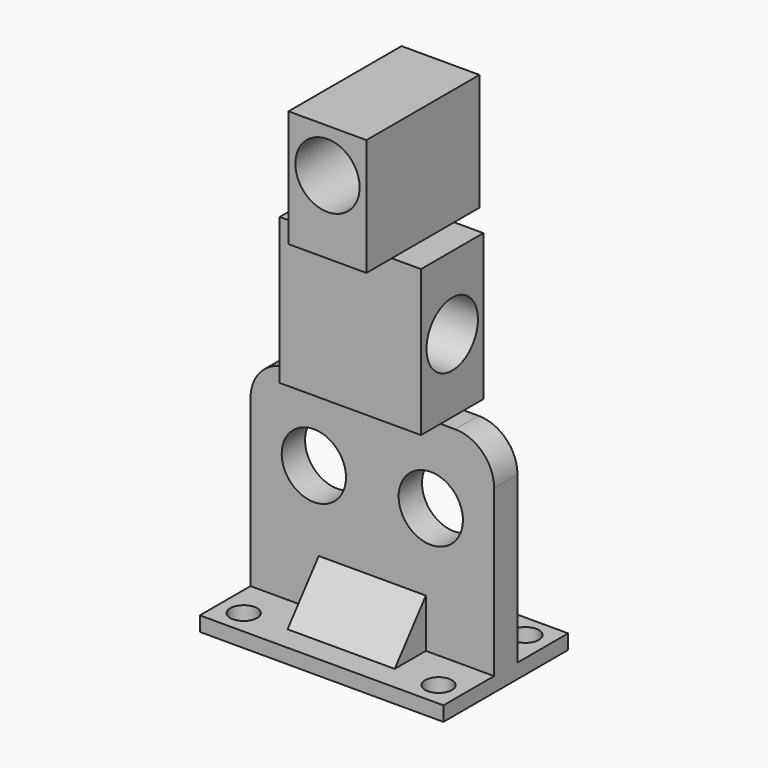
from build123d import *

# Parameters (mm, degrees)
PAD001_DEPTH  = 50
PAD002_DEPTH  = 50
SKETCH005_W   = 14
SKETCH005_H   = 13
PAD004_DEPTH  = 20
SKETCH006_W   = 14
SKETCH006_H   = 13
PAD005_DEPTH  = 20
SKETCH007_W   = 14
SKETCH007_H   = 13
PAD006_DEPTH  = 20
SKETCH008_W   = 14
SKETCH008_H   = 13
PAD007_DEPTH  = 20
SKETCH003_W   = 32
SKETCH003_H   = 3
PAD003_DEPTH  = 50
SKETCH004_R   = 2.75
HOLE_DEPTH    = 3.001
SKETCH009_W   = 16
SKETCH009_H   = 29
PAD008_DEPTH  = 30
SKETCH010_R   = 6.6
HOLE001_DEPTH = 29.001
SKETCH011_W   = 16
SKETCH011_H   = 29
PAD009_DEPTH  = 24
SKETCH012_R   = 6.6
HOLE002_DEPTH = 29.001001
SKETCH_W      = 32
SKETCH_H      = 42
PAD_DEPTH     = 50
SKETCH014_R   = 6.6
HOLE004_DEPTH = 32.001
FILLET_R      = 8
FILLET001_R   = 8


with BuildPart() as body001:
    # Sketch001 (on Face1 of CopyPad) → Pad001 (new body)
    with BuildSketch(Plane.YZ.offset(50)):
        Polygon((19, 44), (32, 44), (32, 2), (27, 2), (19, 12.011942), align=None)
    extrude(amount=-PAD001_DEPTH)


with BuildPart() as body002:
    # Sketch002 (on Face1 of CopyPad001) → Pad002 (new body)
    with BuildSketch(Plane.YZ.offset(50)):
        Polygon((13, 44), (13, 12), (5, 2), (0, 2), (0, 44), align=None)
    extrude(amount=-PAD002_DEPTH)


with BuildPart() as body004:
    # Sketch005 (on Face1 of CopyHole) → Pad004 (new body)
    with BuildSketch(Plane.XY.offset(2)):
        with Locations((7, 6.5)):
            Rectangle(SKETCH005_W, SKETCH005_H)
    extrude(amount=PAD004_DEPTH)


with BuildPart() as body005:
    # Sketch006 (on Face1 of CopyHole001) → Pad005 (new body)
    with BuildSketch(Plane.XY.offset(2)):
        with Locations((7, 25.5)):
            Rectangle(SKETCH006_W, SKETCH006_H)
    extrude(amount=PAD005_DEPTH)


with BuildPart() as body006:
    # Sketch007 (on Face1 of CopyHole002) → Pad006 (new body)
    with BuildSketch(Plane.XY.offset(2)):
        with Locations((43, 6.5)):
            Rectangle(SKETCH007_W, SKETCH007_H)
    extrude(amount=PAD006_DEPTH)


with BuildPart() as body007:
    # Sketch008 (on Face1 of CopyHole003) → Pad007 (new body)
    with BuildSketch(Plane.XY.offset(2)):
        with Locations((43, 25.5)):
            Rectangle(SKETCH008_W, SKETCH008_H)
    extrude(amount=PAD007_DEPTH)


with BuildPart() as body003:
    # Sketch003 (on Face1 of CopyPad002) → Pad003 (new body)
    with BuildSketch(Plane(origin=(0, 0, 0), x_dir=(0, -1, 0), z_dir=(-1, 0, 0))):
        with Locations((-16, 0.5)):
            Rectangle(SKETCH003_W, SKETCH003_H)
    extrude(amount=-PAD003_DEPTH)

    # Sketch004 (on Face1 of Pad003) → Hole (cut, through all)
    with BuildSketch(Plane.XY.offset(2)):
        with Locations((5, 27)):
            Circle(SKETCH004_R)
        with Locations((5, 5)):
            Circle(SKETCH004_R)
        with Locations((45, 5)):
            Circle(SKETCH004_R)
        with Locations((45, 27.276354)):
            Circle(SKETCH004_R)
    extrude(amount=-HOLE_DEPTH, mode=Mode.SUBTRACT)


with BuildPart() as body008:
    # Sketch009 (on Face1 of CopyPad003) → Pad008 (new body)
    with BuildSketch(Plane(origin=(0, 0, 44), x_dir=(0, -1, 0), z_dir=(0, 0, 1))):
        with Locations((-16, 24.5)):
            Rectangle(SKETCH009_W, SKETCH009_H)
    extrude(amount=PAD008_DEPTH)

    # Sketch010 (on Face1 of Pad008) → Hole001 (cut, through all)
    with BuildSketch(Plane(origin=(10, 0, 0), x_dir=(0, 1, 0), z_dir=(-1, 0, 0))):
        with Locations((16, -59)):
            Circle(SKETCH010_R)
    extrude(amount=-HOLE001_DEPTH, mode=Mode.SUBTRACT)


with BuildPart() as body009:
    # Sketch011 (on Face1 of CopyHole001001) → Pad009 (new body)
    with BuildSketch(Plane.XY.offset(74)):
        with Locations((25, 16)):
            Rectangle(SKETCH011_W, SKETCH011_H)
    extrude(amount=PAD009_DEPTH)

    # Sketch012 (on Face1 of Pad009) → Hole002 (cut, through all)
    with BuildSketch(Plane(origin=(-1e-06, 30.5, 30.000001), x_dir=(-1, 0, 0), z_dir=(0, 1, 0))):
        with Locations((-25, 59)):
            Circle(SKETCH012_R)
    extrude(amount=-HOLE002_DEPTH, mode=Mode.SUBTRACT)


with BuildPart() as body:
    # Sketch → Pad (new body)
    with BuildSketch(Plane.YZ):
        with Locations((16, 23)):
            Rectangle(SKETCH_W, SKETCH_H)
    extrude(amount=PAD_DEPTH)

    # Sketch014 (on Face2 of Pad) → Hole004 (cut, through all)
    with BuildSketch(Plane.ZX.offset(32)):
        with Locations((28.082674, 37)):
            Circle(SKETCH014_R)
        with Locations((28, 13)):
            Circle(SKETCH014_R)
    extrude(amount=-HOLE004_DEPTH, mode=Mode.SUBTRACT)

    # Boolean: cut Body001
    add(body001.part, mode=Mode.SUBTRACT)

    # Boolean001: cut Body002
    add(body002.part, mode=Mode.SUBTRACT)

    # Boolean002: cut Body004
    add(body004.part, mode=Mode.SUBTRACT)

    # Boolean003: cut Body005
    add(body005.part, mode=Mode.SUBTRACT)

    # Boolean004: cut Body006
    add(body006.part, mode=Mode.SUBTRACT)

    # Boolean005: cut Body007
    add(body007.part, mode=Mode.SUBTRACT)

    # Boolean006: union Body003
    add(body003.part)

    # Boolean007: union Body008, Body009
    add(body008.part)
    add(body009.part)

    # Fillet
    fillet_edges = [body.edges().sort_by_distance(p)[0] for p in [
        (50, 16, 44),
    ]]
    fillet(fillet_edges, radius=FILLET_R)

    # Fillet001
    fillet001_edges = [body.edges().sort_by_distance(p)[0] for p in [
        (0, 16, 44),
    ]]
    fillet(fillet001_edges, radius=FILLET001_R)


solid = body.part
